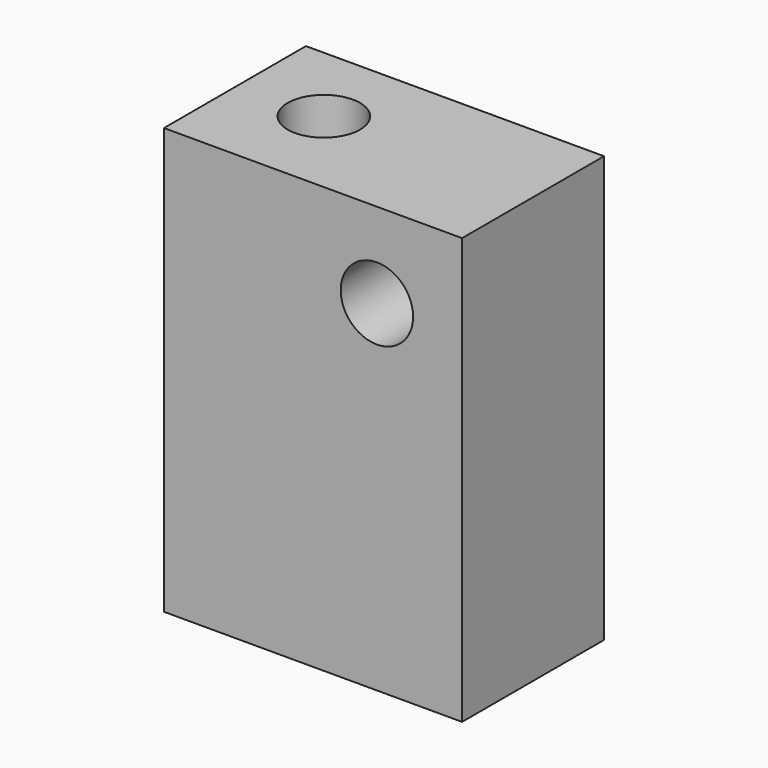
from build123d import *

# Parameters (mm, degrees)
F0_W     = 42
F0_H     = 25
F1_DEPTH = 60
F3_R     = 8.75
F4_DEPTH = 35
F2_R     = 5.1
F5_DEPTH = 25.001
F6_R     = 5.1
F7_DEPTH = 35


with BuildPart() as f1:
    # F0 (on Top) → F1 (new body)
    with BuildSketch(Plane.XY):
        with Locations((-14.431418, -6.483706)):
            Rectangle(F0_W, F0_H)
    extrude(amount=F1_DEPTH)

    # F3 (on Top) → F4 (cut)
    with BuildSketch(Plane.XY):
        with Locations((-23.446827, -5.808319)):
            Circle(F3_R)
    extrude(amount=F4_DEPTH, mode=Mode.SUBTRACT)

    # F2 (on face) → F5 (cut, through all)
    with BuildSketch(Plane.XZ.offset(18.983706)):
        with Locations((-5.431418, 48)):
            Circle(F2_R)
    extrude(amount=-F5_DEPTH, mode=Mode.SUBTRACT)

    # F6 (on face) → F7 (cut)
    with BuildSketch(Plane(origin=(0, 0, 35), x_dir=(1, 0, 0), z_dir=(0, 0, -1))):
        with Locations((-23.446827, 5.808319)):
            Circle(F6_R)
    extrude(amount=-F7_DEPTH, mode=Mode.SUBTRACT)


solid = f1.part
